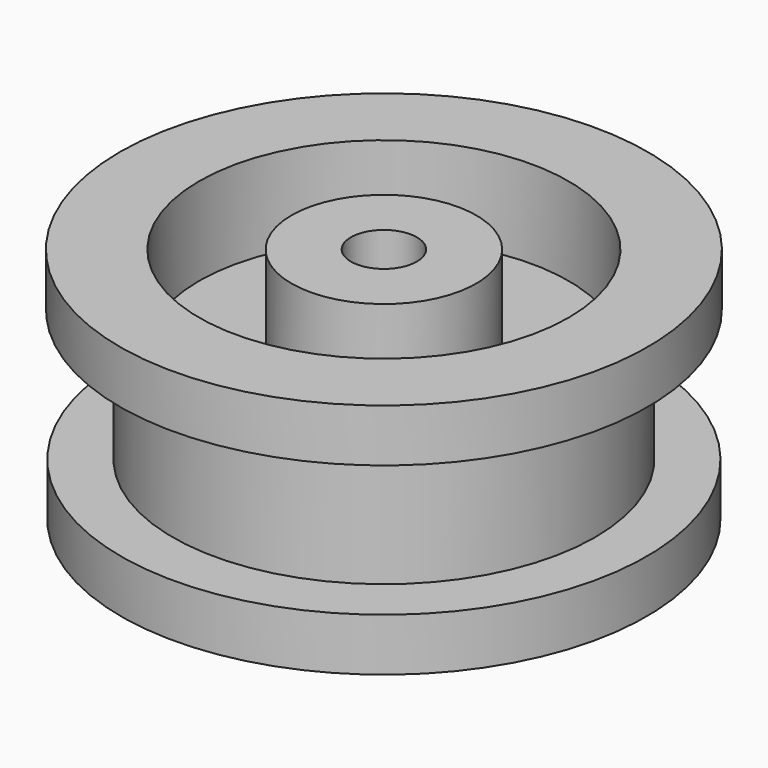
from build123d import *

# Parameters (mm, degrees)
F0_W     = 6.216531
F0_H     = 6.35
F0_W_2   = 6.35
F0_W_3   = 11.1125
F0_H_2   = 7.46389
F2_R     = 3.96875
F3_DEPTH = 28.576


with BuildPart() as f1:
    # F0 (on Front) → F1 (revolve)
    with BuildSketch(Plane.XZ):
        with Locations((-24.436133, -7.781217)):
            Rectangle(F0_W, F0_H)
        Polygon((-18.152868, 7.063228), (-18.152868, 17.618783), (-21.327868, 17.618783), (-21.327868, 11.268783), (-21.327868, -4.606217), (-21.327868, -10.956217), (-18.152868, -10.956217), (-18.152868, -0.400662), align=None)
        with Locations((-24.502868, 14.443783)):
            Rectangle(F0_W_2, F0_H)
        with Locations((-12.596618, 3.331283)):
            Rectangle(F0_W_3, F0_H_2)
        Polygon((-7.040368, 17.618783), (-7.040368, 7.063228), (-7.040368, -0.400662), (-7.040368, -10.956217), (4.072132, -10.956217), (4.072132, 17.618783), align=None)
    revolve(axis=Axis((4.072132, 0, 3.331283), (0, 0, -1)))

    # F2 (on face) → F3 (cut, through all)
    with BuildSketch(Plane.XY.offset(17.618783)):
        with Locations((4.072132, 0)):
            Circle(F2_R)
    extrude(amount=-F3_DEPTH, mode=Mode.SUBTRACT)


solid = f1.part
